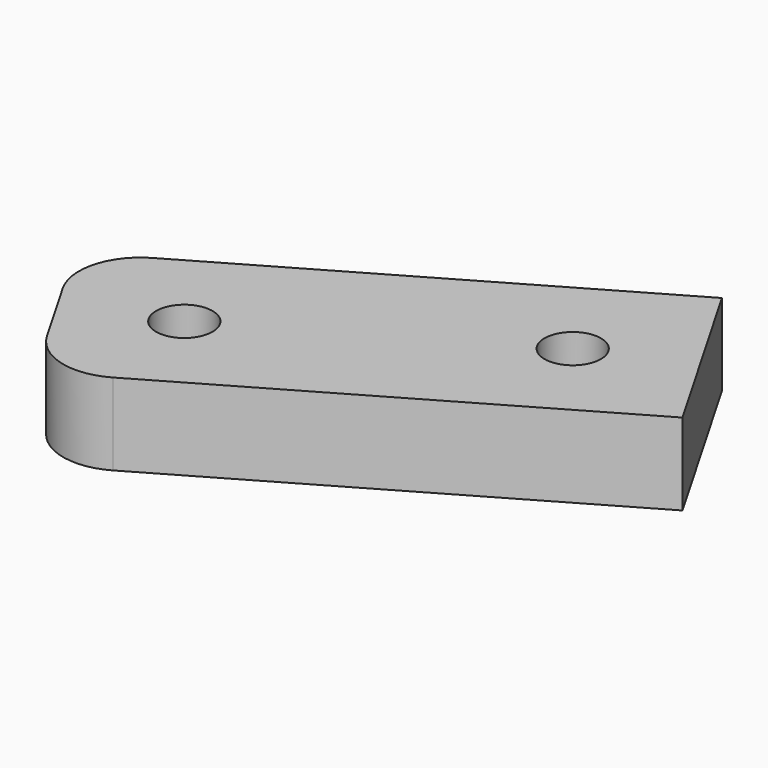
from build123d import *

# Parameters (mm, degrees)
CYLINDER047_R          = 1.38
CYLINDER047_DEPTH      = 10
CYLINDER046_R          = 1.38
CYLINDER046_DEPTH      = 10
BOX027_W               = 25
BOX027_H               = 10
BOX027_DEPTH           = 4
CUT026_PLACEMENT_ANGLE = 30
FILLET002_R            = 3


with BuildPart() as cylinder047:
    # Cylinder047 → Cylinder047 (new body)
    with BuildSketch(Plane(origin=(25, 52, 59), x_dir=(1, 0, 0), z_dir=(0, 0, 1))):
        Circle(CYLINDER047_R)
    extrude(amount=CYLINDER047_DEPTH)


with BuildPart() as cylinder046:
    # Cylinder046 → Cylinder046 (new body)
    with BuildSketch(Plane(origin=(40, 52, 59), x_dir=(1, 0, 0), z_dir=(0, 0, 1))):
        Circle(CYLINDER046_R)
    extrude(amount=CYLINDER046_DEPTH)


with BuildPart() as fillet002:
    # Box027 → Box027 (new body)
    with BuildSketch(Plane(origin=(45, 57, 62), x_dir=(-1, 0, 0), z_dir=(0, 0, 1))):
        with Locations((12.5, 5)):
            Rectangle(BOX027_W, BOX027_H)
    extrude(amount=BOX027_DEPTH)

    # Cut027: cut Cylinder046
    add(cylinder046.part, mode=Mode.SUBTRACT)

    # Cut026: cut Cylinder047
    add(cylinder047.part, mode=Mode.SUBTRACT)


with BuildPart() as fillet002_1:
    # Cut026 placement: moved
    add(fillet002.part.moved(Location((31.35, -13.05, 0))).rotate(Axis((31.35, -13.05, 0), (0, 0, 1)), CUT026_PLACEMENT_ANGLE))

    # Fillet002
    fillet002_edges = [fillet002_1.edges().sort_by_distance(p)[0] for p in [
        (20.170508, 46.313448, 64),
        (25.170508, 37.653194, 64),
    ]]
    fillet(fillet002_edges, radius=FILLET002_R)


with BuildPart() as fillet002_2:
    # Fillet002 placement: moved
    add(fillet002_1.part.moved(Location((-2, 5, 0))))


solid = fillet002_2.part
